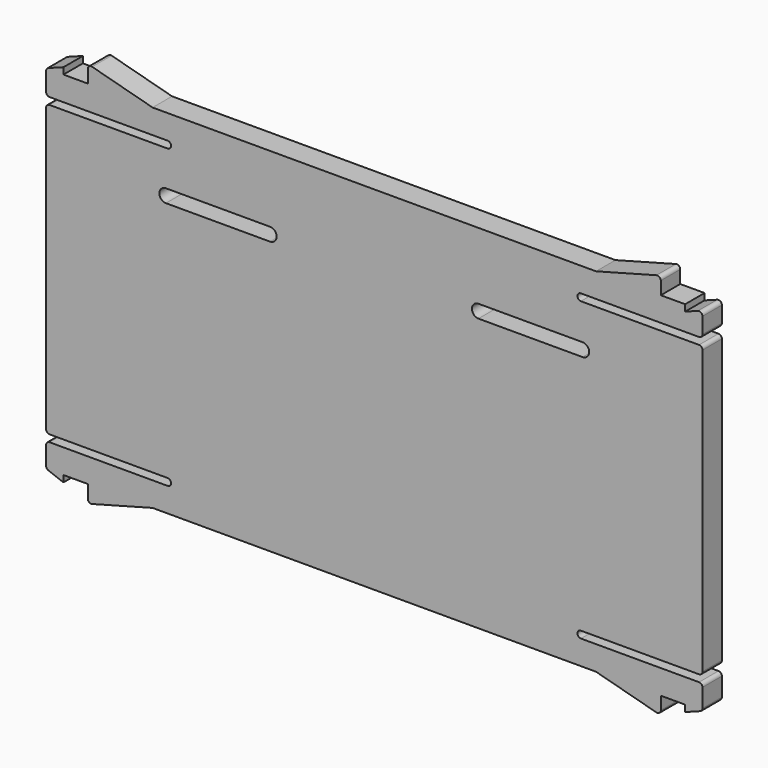
from build123d import *

# Parameters (mm, degrees)
PAD009_DEPTH    = 2.8
FILLET004_R     = 0.4
POCKET014_DEPTH = 2.801


with BuildPart() as part:
    # Sketch009 (on Face6 of ShapeBinder008) → Pad009 (new body)
    with BuildSketch(Plane.XZ.offset(60.5)):
        with BuildLine():
            Line((37.8, 3.2), (37.8, 0.4))
            Line((37.8, 0.4), (23.8, 0.4))
            ThreePointArc((23.8, 0.4), (23.4, 0), (23.8, -0.4))
            Line((23.8, -0.4), (37.8, -0.4))
            Line((37.8, -0.4), (37.8, -33.8))
            Line((37.8, -33.8), (23.8, -33.8))
            ThreePointArc((23.8, -33.8), (23.4, -34.2), (23.8, -34.6))
            Line((23.8, -34.6), (37.8, -34.6))
            Line((37.8, -34.6), (37.8, -37.4))
            Line((37.8, -37.4), (35.8, -38.15))
            Line((35.8, -38.15), (35.8, -37.4))
            Line((35.8, -37.4), (33, -37.4))
            Line((33, -37.4), (33, -39.4))
            Line((33, -39.4), (25.535898, -37.4))
            Line((25.535898, -37.4), (-25.535898, -37.4))
            Line((-25.535898, -37.4), (-33, -39.4))
            Line((-33, -39.4), (-33, -37.4))
            Line((-33, -37.4), (-35.8, -37.4))
            Line((-35.8, -38.15), (-35.8, -37.4))
            Line((-37.8, -37.4), (-35.8, -38.15))
            Line((-37.8, -37.4), (-37.8, -34.6))
            Line((-37.8, -34.6), (-23.8, -34.6))
            ThreePointArc((-23.8, -34.6), (-23.4, -34.2), (-23.8, -33.8))
            Line((-23.8, -33.8), (-37.8, -33.8))
            Line((-37.8, -33.8), (-37.8, -0.4))
            Line((-37.8, -0.4), (-23.8, -0.4))
            ThreePointArc((-23.8, -0.4), (-23.4, 0), (-23.8, 0.4))
            Line((-23.8, 0.4), (-37.8, 0.4))
            Line((-37.8, 0.4), (-37.8, 3.2))
            Line((-37.8, 3.2), (-35.8, 3.95))
            Line((-35.8, 3.95), (-35.8, 3.2))
            Line((-35.8, 3.2), (-33, 3.2))
            Line((-33, 3.2), (-33, 5.2))
            Line((-33, 5.2), (-25.535898, 3.2))
            Line((-25.535898, 3.2), (25.535898, 3.2))
            Line((25.535898, 3.2), (33, 5.2))
            Line((33, 5.2), (33, 3.2))
            Line((33, 3.2), (35.8, 3.2))
            Line((35.8, 2.45), (35.8, 3.2))
            Line((37.8, 3.2), (35.8, 2.45))
        make_face()
    extrude(amount=-PAD009_DEPTH)

    # Fillet004
    fillet004_edges = [part.edges().sort_by_distance(p)[0] for p in [
        (33, -59.1, 5.2),
        (37.8, -59.1, 3.2),
        (37.8, -59.1, 0.4),
        (37.8, -59.1, -0.4),
        (37.8, -59.1, -33.8),
        (37.8, -59.1, -34.6),
        (37.8, -59.1, -37.4),
        (33, -59.1, -39.4),
        (-37.8, -59.1, -33.8),
        (-37.8, -59.1, -34.6),
        (-37.8, -59.1, -37.4),
        (-33, -59.1, -39.4),
        (-33, -59.1, 5.2),
        (-37.8, -59.1, 3.2),
        (-37.8, -59.1, 0.4),
        (-37.8, -59.1, -0.4),
    ]]
    fillet(fillet004_edges, radius=FILLET004_R)

    # Sketch025 (on Face2 of Fillet004) → Pocket014 (cut, through all)
    with BuildSketch(Plane.XZ.offset(60.5)):
        with BuildLine():
            ThreePointArc((-24, -4.49), (-24.755, -5.245), (-24, -6))
            Line((-24, -6), (-12, -6))
            ThreePointArc((-12, -6), (-11.245, -5.245), (-12, -4.49))
            Line((-24, -4.49), (-12, -4.49))
        make_face()
        with BuildLine():
            ThreePointArc((12, -4.49), (11.245, -5.245), (12, -6))
            Line((12, -6), (24, -6))
            ThreePointArc((24, -6), (24.755, -5.245), (24, -4.49))
            Line((12, -4.49), (24, -4.49))
        make_face()
    extrude(amount=-POCKET014_DEPTH, mode=Mode.SUBTRACT)


solid = part.part
